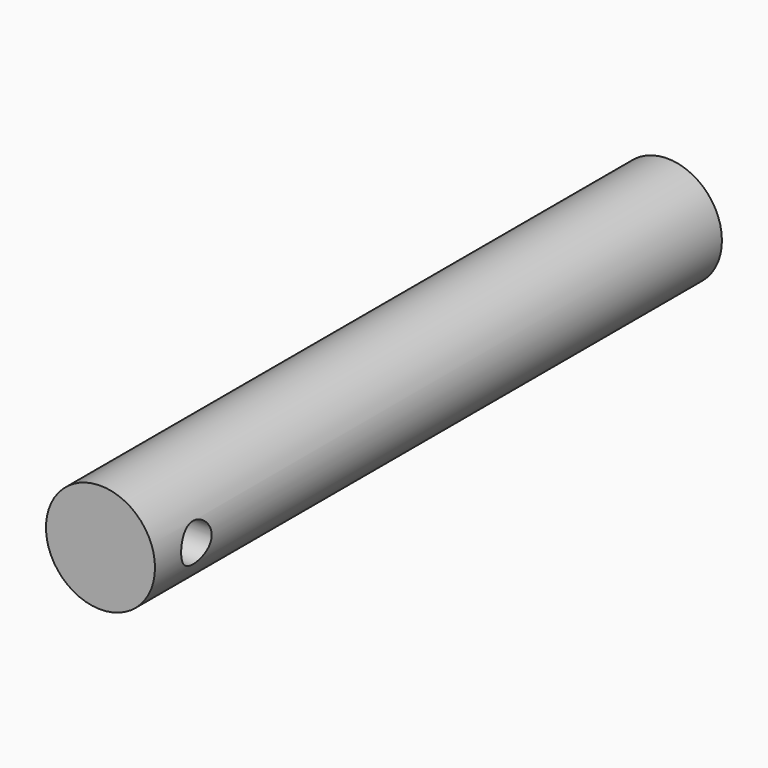
from build123d import *

# Parameters (mm, degrees)
F1_W     = 130
F1_H     = 20
F1_R     = 3.5
F2_DEPTH = 12.5
F0_R     = 10
F3_DEPTH = 149


with BuildPart() as f2:
    # F1 (on Right) → F2 (new body, symmetric)
    with BuildSketch(Plane.YZ):
        with Locations((-65, 0)):
            Rectangle(F1_W, F1_H)
        with Locations((-120.5, 0)):
            Circle(F1_R, mode=Mode.SUBTRACT)
    extrude(amount=F2_DEPTH, both=True)

    # F0 (on Front) → F3 (intersect)
    with BuildSketch(Plane.XZ):
        Circle(F0_R)
    extrude(amount=F3_DEPTH, mode=Mode.INTERSECT)


solid = f2.part
